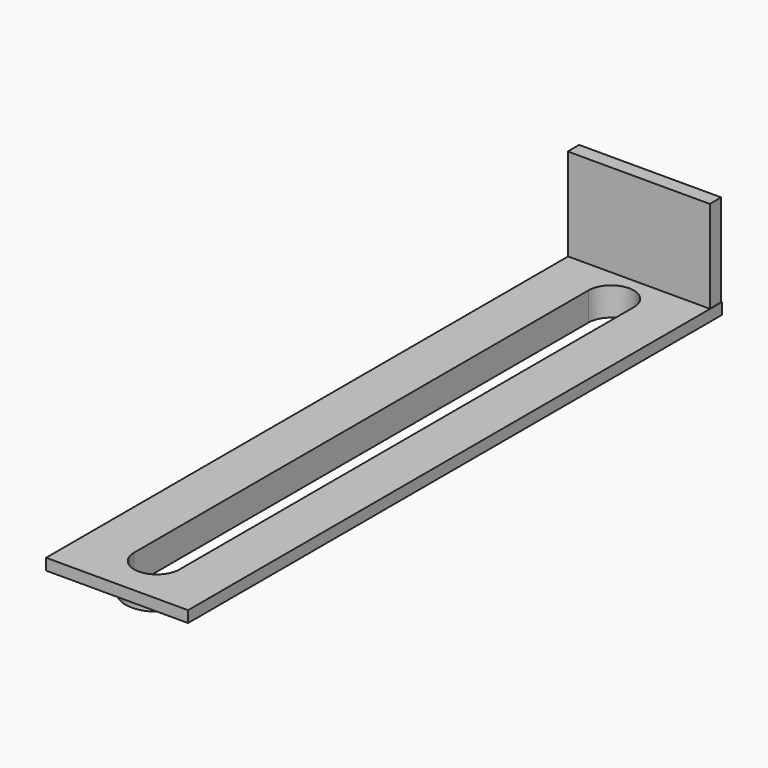
from build123d import *

# Parameters (mm, degrees)
F0_W     = 50
F0_H     = 235
F1_DEPTH = 4
F2_DEPTH = 10
F3_ANGLE = 180
F5_W     = 50
F5_H     = 5
F6_DEPTH = 32.5


with BuildPart() as f1:
    # F0 (on Top) → F1 (new body)
    with BuildSketch(Plane.XY):
        Rectangle(F0_W, F0_H)
        with BuildLine():
            Line((11, 100), (11, -100))
            ThreePointArc((11, -100), (0, -111), (-11, -100))
            Line((-11, -100), (-11, 100))
            ThreePointArc((-11, 100), (0, 111), (11, 100))
        make_face(mode=Mode.SUBTRACT)
    extrude(amount=F1_DEPTH)

    # F0 (on Top) → F2 (join)
    with BuildSketch(Plane.XY):
        with BuildLine():
            ThreePointArc((-11, -100), (0, -111), (11, -100))
            Line((11, -100), (11, 100))
            ThreePointArc((11, 100), (0, 111), (-11, 100))
            Line((-11, 100), (-11, -100))
        make_face()
        with BuildLine():
            Line((8, 100), (8, -100))
            ThreePointArc((8, -100), (0, -108), (-8, -100))
            Line((-8, -100), (-8, 100))
            ThreePointArc((-8, 100), (0, 108), (8, 100))
        make_face(mode=Mode.SUBTRACT)
    extrude(amount=F2_DEPTH)


with BuildPart() as f1_1:
    # F3: moved
    add(f1.part.rotate(Axis((-8, 0, 0), (0, 1, 0)), F3_ANGLE))


with BuildPart() as f1_2:
    # F4: moved
    add(f1_1.part.moved(Location((16, 0, 0))))

    # F5 (on face) → F6 (join)
    with BuildSketch(Plane.XY):
        with Locations((-0.108881, 114.791463)):
            Rectangle(F5_W, F5_H)
    extrude(amount=F6_DEPTH)


solid = f1_2.part
